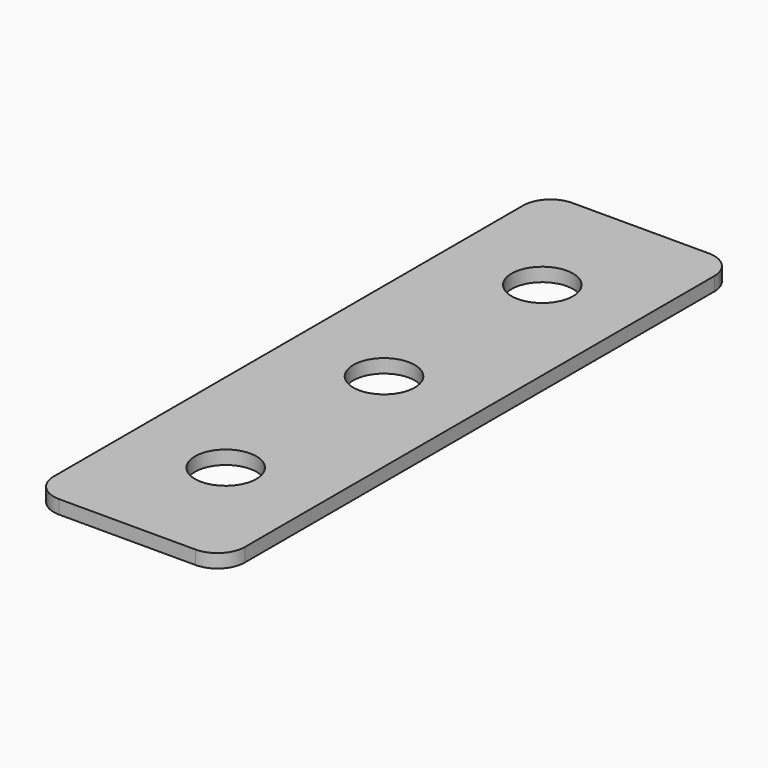
from build123d import *

# Parameters (mm, degrees)
SKETCH_R  = 4.5
PAD_DEPTH = 2


with BuildPart() as part:
    # Sketch → Pad (new body)
    with BuildSketch(Plane.XY):
        with BuildLine():
            Line((-10, 47), (10, 47))
            ThreePointArc((14, 43), (12.828427, 45.828427), (10, 47))
            Line((14, 43), (14, -43))
            ThreePointArc((10, -47), (12.828427, -45.828427), (14, -43))
            Line((10, -47), (-10, -47))
            ThreePointArc((-14, -43), (-12.828427, -45.828427), (-10, -47))
            Line((-14, -43), (-14, 43))
            ThreePointArc((-10, 47), (-12.828427, 45.828427), (-14, 43))
        make_face()
        Circle(SKETCH_R, mode=Mode.SUBTRACT)
        with Locations((0, 29)):
            Circle(SKETCH_R, mode=Mode.SUBTRACT)
        with Locations((0, -29)):
            Circle(SKETCH_R, mode=Mode.SUBTRACT)
    extrude(amount=PAD_DEPTH)


solid = part.part
